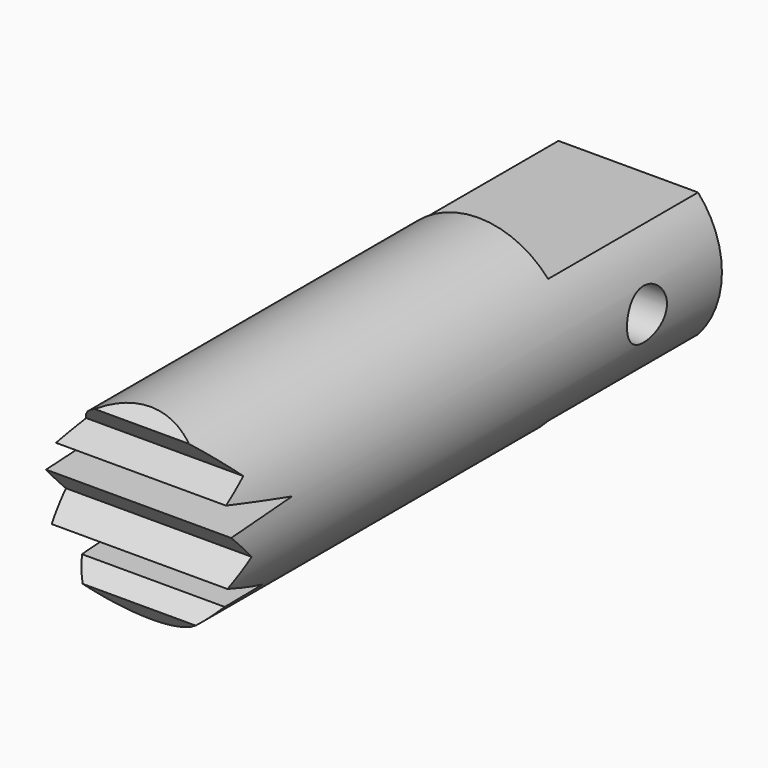
from build123d import *

# Parameters (mm, degrees)
F0_R     = 7.5
F1_DEPTH = 50
F3_DEPTH = 12.5
F4_W     = 15
F4_H     = 7.736891
F4_H_2   = 4.14352
F5_DEPTH = 15
F6_R     = 2
F7_DEPTH = 12.5


with BuildPart() as f1:
    # F0 (on Front) → F1 (new body)
    with BuildSketch(Plane.XZ):
        Circle(F0_R)
    extrude(amount=F1_DEPTH)

    # F2 (on Right) → F3 (cut, symmetric)
    with BuildSketch(Plane.YZ):
        Polygon((-44.571992, 11.14893), (-51.264416, 11.14893), (-51.264416, -8.581314), (-47.007408, -8.41625), (-48.95056, -5.98029), (-47.531635, -4.853975), (-43.883123, -4.709495), (-48.910081, -2.602493), (-46.984833, -0.98913), (-49.004711, 1.153992), (-42.819649, 1.551311), (-48.76826, 3.143417), (-46.388377, 4.090473), (-48.69375, 6.484859), align=None)
    extrude(amount=F3_DEPTH, both=True, mode=Mode.SUBTRACT)

    # F4 (on Front) → F5 (cut)
    with BuildSketch(Plane.XZ):
        with Locations((-0.000368, -8.868445)):
            Rectangle(F4_W, F4_H)
        with Locations((0.000368, 7.07176)):
            Rectangle(F4_W, F4_H_2)
    extrude(amount=F5_DEPTH, mode=Mode.SUBTRACT)

    # F6 (on Right) → F7 (cut, symmetric)
    with BuildSketch(Plane.YZ):
        with Locations((-7.5, 0)):
            Circle(F6_R)
    extrude(amount=F7_DEPTH, both=True, mode=Mode.SUBTRACT)


solid = f1.part
